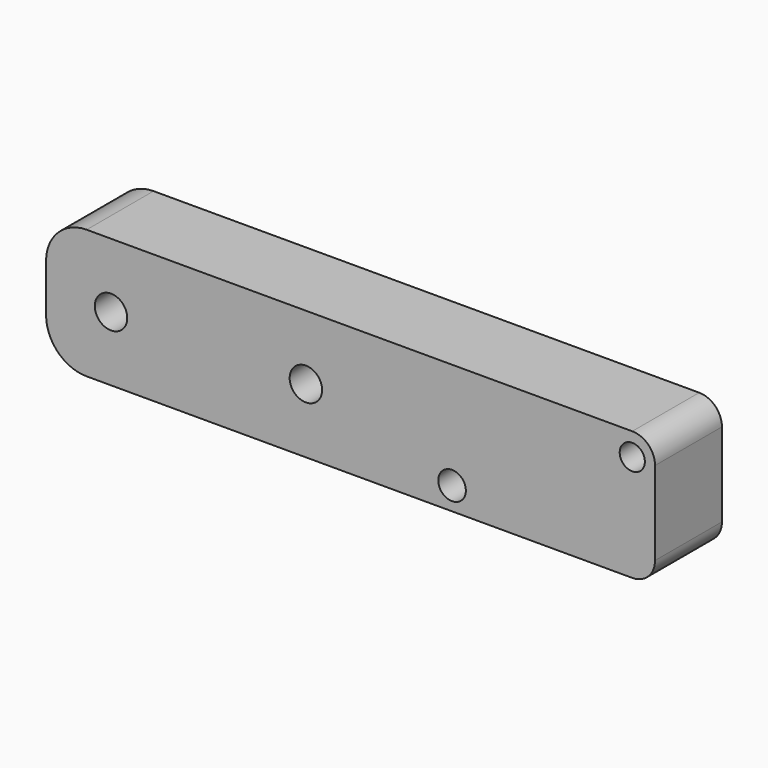
from build123d import *

# Parameters (mm, degrees)
F0_W     = 27.8
F0_H     = 15.9
F1_DEPTH = 10.3
F2_R     = 1.7
F2_R_2   = 1.55
F3_DEPTH = 10.301
F4_R     = 2.8
F6_DEPTH = 10.3
F7_R     = 2
F8_DEPTH = 10.3


with BuildPart() as f1:
    # F0 (on Front) → F1 (new body)
    with BuildSketch(Plane.XZ):
        with Locations((13.9, 7.95)):
            Rectangle(F0_W, F0_H)
    extrude(amount=F1_DEPTH)

    # F2 (on face) → F3 (cut, through all)
    with BuildSketch(Plane.XZ.offset(10.3)):
        with Locations((2.8, 2.8)):
            Circle(F2_R)
        with Locations((25, 13.1)):
            Circle(F2_R_2)
    extrude(amount=-F3_DEPTH, mode=Mode.SUBTRACT)

    # F4
    f4_edges = [f1.edges().sort_by_distance(p)[0] for p in [
        (0, -5.15, 0),
        (0, -5.15, 15.9),
        (27.8, -5.15, 0),
        (27.8, -5.15, 15.9),
    ]]
    fillet(f4_edges, radius=F4_R)

    # F5 (on face) → F6 (join, through all)
    with BuildSketch(Plane.XZ.offset(10.3)):
        with BuildLine():
            ThreePointArc((0, 13.1), (0.820101, 15.079899), (2.8, 15.9))
            Line((2.8, 15.9), (-42.2, 15.9))
            ThreePointArc((-42.2, 15.9), (-45.735534, 14.435534), (-47.2, 10.9))
            Line((-47.2, 10.9), (-47.2, 5))
            ThreePointArc((-47.2, 5), (-45.735534, 1.464466), (-42.2, 0))
            Line((-42.2, 0), (2.8, 0))
            ThreePointArc((2.8, 0), (0.820101, 0.820101), (0, 2.8))
            Line((0, 2.8), (0, 13.1))
        make_face()
    extrude(amount=-F6_DEPTH)

    # F7 (on face) → F8 (cut, through all)
    with BuildSketch(Plane(origin=(0, 0, 0), x_dir=(-1, 0, 0), z_dir=(0, 1, 0))):
        with Locations((39.2, 7.95)):
            Circle(F7_R)
        with Locations((15.2, 7.95)):
            Circle(F7_R)
    extrude(amount=-F8_DEPTH, mode=Mode.SUBTRACT)


solid = f1.part
